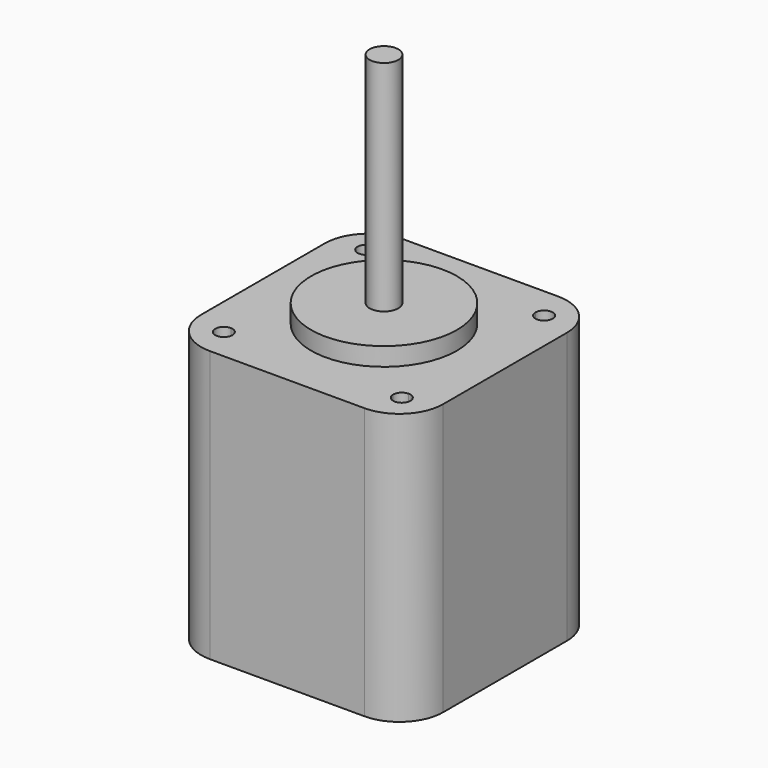
from build123d import *

# Parameters (mm, degrees)
F0_W     = 42.164
F0_H     = 42.164
F1_DEPTH = 47.244
F2_R     = 7.62
F3_R     = 12.7
F4_DEPTH = 3.175
F5_R     = 2.499995
F6_DEPTH = 38.1
F8_DEPTH = 47.245


with BuildPart() as f1:
    # F0 (on Top) → F1 (new body)
    with BuildSketch(Plane.XY):
        Rectangle(F0_W, F0_H)
    extrude(amount=-F1_DEPTH)

    # F2
    f2_edges = [f1.edges().sort_by_distance(p)[0] for p in [
        (21.082, -21.082, -23.622),
        (21.082, 21.082, -23.622),
        (-21.082, 21.082, -23.622),
        (-21.082, -21.082, -23.622),
    ]]
    fillet(f2_edges, radius=F2_R)

    # F3 (on face) → F4 (join)
    with BuildSketch(Plane.XY):
        Circle(F3_R)
    extrude(amount=F4_DEPTH)

    # F5 (on face) → F6 (join)
    with BuildSketch(Plane.XY.offset(3.175)):
        Circle(F5_R)
    extrude(amount=F6_DEPTH)

    # F7 (on face) → F8 (cut, through all)
    with BuildSketch(Plane.XY):
        with BuildLine():
            Line((-15.494, 15.494), (-13.9954, 15.494))
            ThreePointArc((-13.9954, 15.494), (-16.55367, 16.55367), (-15.494, 13.9954))
            Line((-15.494, 13.9954), (-15.494, 15.494))
        make_face()
        with BuildLine():
            ThreePointArc((-15.494, 13.9954), (-14.43433, 14.43433), (-13.9954, 15.494))
            Line((-13.9954, 15.494), (-15.494, 15.494))
            Line((-15.494, 15.494), (-15.494, 13.9954))
        make_face()
        with BuildLine():
            Line((15.494, 15.494), (13.9954, 15.494))
            ThreePointArc((13.9954, 15.494), (14.43433, 14.43433), (15.494, 13.9954))
            Line((15.494, 13.9954), (15.494, 15.494))
        make_face()
        with BuildLine():
            ThreePointArc((16.9926, 15.494), (15.494, 16.9926), (13.9954, 15.494))
            Line((13.9954, 15.494), (15.494, 15.494))
            Line((15.494, 15.494), (15.494, 13.9954))
            ThreePointArc((15.494, 13.9954), (16.55367, 14.43433), (16.9926, 15.494))
        make_face()
        with BuildLine():
            ThreePointArc((16.9926, -15.494), (16.55367, -14.43433), (15.494, -13.9954))
            Line((15.494, -13.9954), (15.494, -15.494))
            Line((15.494, -15.494), (13.9954, -15.494))
            ThreePointArc((13.9954, -15.494), (15.494, -16.9926), (16.9926, -15.494))
        make_face()
        with BuildLine():
            Line((15.494, -15.494), (15.494, -13.9954))
            ThreePointArc((15.494, -13.9954), (14.43433, -14.43433), (13.9954, -15.494))
            Line((13.9954, -15.494), (15.494, -15.494))
        make_face()
        with BuildLine():
            Line((-15.494, -15.494), (-15.494, -13.9954))
            ThreePointArc((-15.494, -13.9954), (-16.55367, -16.55367), (-13.9954, -15.494))
            Line((-13.9954, -15.494), (-15.494, -15.494))
        make_face()
        with BuildLine():
            ThreePointArc((-13.9954, -15.494), (-14.43433, -14.43433), (-15.494, -13.9954))
            Line((-15.494, -13.9954), (-15.494, -15.494))
            Line((-15.494, -15.494), (-13.9954, -15.494))
        make_face()
    extrude(amount=-F8_DEPTH, mode=Mode.SUBTRACT)


solid = f1.part
